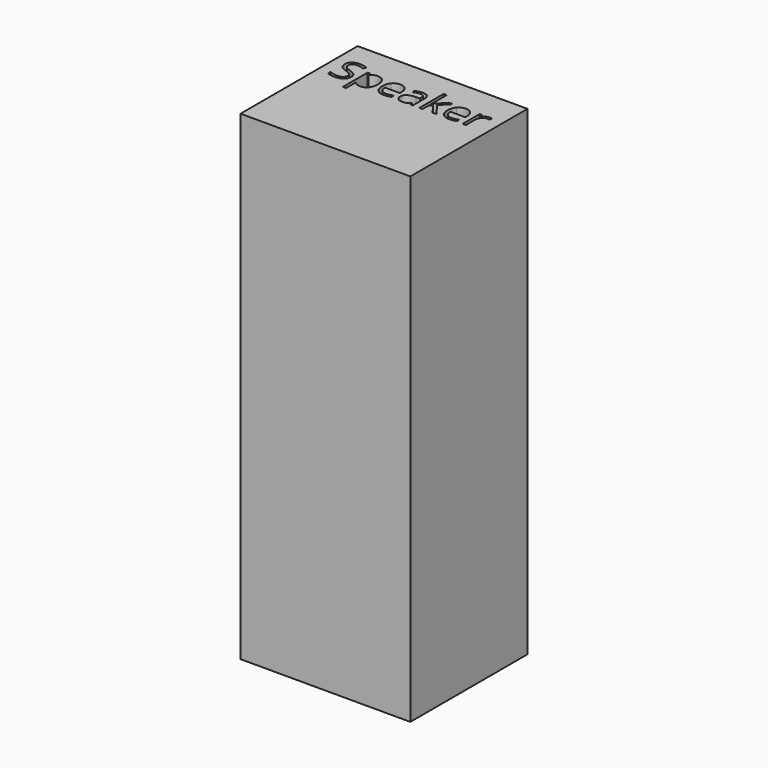
from build123d import *

# Parameters (mm, degrees)
F0_W     = 368.3
F0_H     = 317.5
F1_DEPTH = 1041.4


with BuildPart() as f1:
    # F0 (on Top) → F1 (new body)
    with BuildSketch(Plane.XY):
        Rectangle(F0_W, F0_H)
        with BuildLine():
            add(Edge.make_bspline(
                [(-125.4846355018, 73.7542923918), (-121.8415331808, 69.7873587534), (-121.8415331808, 63.4726480636)],
                knots=[0, 0, 0, 1, 1, 1], degree=2))
            add(Edge.make_bspline(
                [(-121.8415331808, 63.4726480636), (-121.8415331808, 55.3363862133), (-127.744708238, 50.7757618263)],
                knots=[0, 0, 0, 1, 1, 1], degree=2))
            add(Edge.make_bspline(
                [(-127.744708238, 50.7757618263), (-133.6478832952, 46.2151374392), (-143.7676119647, 46.2151374392)],
                knots=[0, 0, 0, 1, 1, 1], degree=2))
            add(Edge.make_bspline(
                [(-143.7676119647, 46.2151374392), (-154.7239048709, 46.2151374392), (-160.6338264139, 49.0486614667)],
                knots=[0, 0, 0, 1, 1, 1], degree=2))
            Line((-160.6338264139, 49.0486614667), (-160.6338264139, 55.9570629051))
            add(Edge.make_bspline(
                [(-160.6338264139, 55.9570629051), (-156.8288084341, 54.3648922611), (-152.362634848, 53.4338772235)],
                knots=[0, 0, 0, 1, 1, 1], degree=2))
            add(Edge.make_bspline(
                [(-152.362634848, 53.4338772235), (-147.8964612619, 52.5028621859), (-143.5112455051, 52.5028621859)],
                knots=[0, 0, 0, 1, 1, 1], degree=2))
            add(Edge.make_bspline(
                [(-143.5112455051, 52.5028621859), (-136.3464776071, 52.5028621859), (-132.7168682576, 55.2216959551)],
                knots=[0, 0, 0, 1, 1, 1], degree=2))
            add(Edge.make_bspline(
                [(-132.7168682576, 55.2216959551), (-129.0872589081, 57.9405297243), (-129.0872589081, 62.7979994856)],
                knots=[0, 0, 0, 1, 1, 1], degree=2))
            add(Edge.make_bspline(
                [(-129.0872589081, 62.7979994856), (-129.0872589081, 65.9958337452), (-130.3758376921, 68.0400189364)],
                knots=[0, 0, 0, 1, 1, 1], degree=2))
            add(Edge.make_bspline(
                [(-130.3758376921, 68.0400189364), (-131.664416476, 70.0842041277), (-134.6800956195, 71.8180509731)],
                knots=[0, 0, 0, 1, 1, 1], degree=2))
            add(Edge.make_bspline(
                [(-134.6800956195, 71.8180509731), (-137.695774763, 73.5518978184), (-143.8485697941, 75.737759211)],
                knots=[0, 0, 0, 1, 1, 1], degree=2))
            add(Edge.make_bspline(
                [(-143.8485697941, 75.737759211), (-152.4435926773, 78.8141567266), (-156.1339203988, 83.0307103389)],
                knots=[0, 0, 0, 1, 1, 1], degree=2))
            add(Edge.make_bspline(
                [(-156.1339203988, 83.0307103389), (-159.8242481203, 87.2472639512), (-159.8242481203, 94.0342286455)],
                knots=[0, 0, 0, 1, 1, 1], degree=2))
            add(Edge.make_bspline(
                [(-159.8242481203, 94.0342286455), (-159.8242481203, 101.1585176288), (-154.474284897, 105.3750712411)],
                knots=[0, 0, 0, 1, 1, 1], degree=2))
            add(Edge.make_bspline(
                [(-154.474284897, 105.3750712411), (-149.1243216737, 109.5916248534), (-140.2999182739, 109.5916248534)],
                knots=[0, 0, 0, 1, 1, 1], degree=2))
            add(Edge.make_bspline(
                [(-140.2999182739, 109.5916248534), (-131.111204642, 109.5916248534), (-123.3932249101, 106.2183819636)],
                knots=[0, 0, 0, 1, 1, 1], degree=2))
            Line((-123.3932249101, 106.2183819636), (-125.633058189, 99.9846291032))
            add(Edge.make_bspline(
                [(-125.633058189, 99.9846291032), (-133.2700800915, 103.1824633627), (-140.4753269042, 103.1824633627)],
                knots=[0, 0, 0, 1, 1, 1], degree=2))
            add(Edge.make_bspline(
                [(-140.4753269042, 103.1824633627), (-146.1693609023, 103.1824633627), (-149.3739416476, 100.7402355105)],
                knots=[0, 0, 0, 1, 1, 1], degree=2))
            add(Edge.make_bspline(
                [(-149.3739416476, 100.7402355105), (-152.5785223929, 98.2980076582), (-152.5785223929, 93.9532708161)],
                knots=[0, 0, 0, 1, 1, 1], degree=2))
            add(Edge.make_bspline(
                [(-152.5785223929, 93.9532708161), (-152.5785223929, 90.7554365566), (-151.3978873815, 88.7045048796)],
                knots=[0, 0, 0, 1, 1, 1], degree=2))
            add(Edge.make_bspline(
                [(-151.3978873815, 88.7045048796), (-150.2172523701, 86.6535732025), (-147.4107142857, 84.9467123003)],
                knots=[0, 0, 0, 1, 1, 1], degree=2))
            add(Edge.make_bspline(
                [(-147.4107142857, 84.9467123003), (-144.6041762014, 83.239851398), (-138.829184374, 81.1754267495)],
                knots=[0, 0, 0, 1, 1, 1], degree=2))
            add(Edge.make_bspline(
                [(-138.829184374, 81.1754267495), (-129.1277378228, 77.7212260303), (-125.4846355018, 73.7542923918)],
                knots=[0, 0, 0, 1, 1, 1], degree=2))
        make_face(mode=Mode.SUBTRACT)
        with BuildLine():
            add(Edge.make_bspline(
                [(-74.6633581236, 52.5231016432), (-79.7434619157, 46.2151374392), (-88.7702598889, 46.2151374392)],
                knots=[0, 0, 0, 1, 1, 1], degree=2))
            add(Edge.make_bspline(
                [(-88.7702598889, 46.2151374392), (-93.2904053612, 46.2151374392), (-97.0212119974, 47.8815194268)],
                knots=[0, 0, 0, 1, 1, 1], degree=2))
            add(Edge.make_bspline(
                [(-97.0212119974, 47.8815194268), (-100.7520186335, 49.5479014144), (-103.2752043151, 53.0155951051)],
                knots=[0, 0, 0, 1, 1, 1], degree=2))
            Line((-103.2752043151, 53.0155951051), (-103.7879372344, 53.0155951051))
            add(Edge.make_bspline(
                [(-103.7879372344, 53.0155951051), (-103.2752043151, 48.9677036373), (-103.2752043151, 45.3380942879)],
                knots=[0, 0, 0, 1, 1, 1], degree=2))
            Line((-103.2752043151, 45.3380942879), (-103.2752043151, 26.3130043892))
            Line((-103.2752043151, 26.3130043892), (-110.2780565544, 26.3130043892))
            Line((-110.2780565544, 26.3130043892), (-110.2780565544, 93.2786222382))
            Line((-110.2780565544, 93.2786222382), (-104.5840225564, 93.2786222382))
            Line((-104.5840225564, 93.2786222382), (-103.6125286041, 86.9504185769))
            Line((-103.6125286041, 86.9504185769), (-103.2752043151, 86.9504185769))
            add(Edge.make_bspline(
                [(-103.2752043151, 86.9504185769), (-100.5766100033, 90.7554365566), (-96.9942260543, 92.4420580015)],
                knots=[0, 0, 0, 1, 1, 1], degree=2))
            add(Edge.make_bspline(
                [(-96.9942260543, 92.4420580015), (-93.4118421053, 94.1286794464), (-88.7702598889, 94.1286794464)],
                knots=[0, 0, 0, 1, 1, 1], degree=2))
            add(Edge.make_bspline(
                [(-88.7702598889, 94.1286794464), (-79.5815462569, 94.1286794464), (-74.5824002942, 87.8409546998)],
                knots=[0, 0, 0, 1, 1, 1], degree=2))
            add(Edge.make_bspline(
                [(-74.5824002942, 87.8409546998), (-69.5832543315, 81.5532299531), (-69.5832543315, 70.2191338433)],
                knots=[0, 0, 0, 1, 1, 1], degree=2))
            add(Edge.make_bspline(
                [(-69.5832543315, 70.2191338433), (-69.5832543315, 58.8310658472), (-74.6633581236, 52.5231016432)],
                knots=[0, 0, 0, 1, 1, 1], degree=2))
        make_face(mode=Mode.SUBTRACT)
        with BuildLine():
            add(Edge.make_bspline(
                [(-29.8464530892, 46.9167719603), (-33.1522311213, 46.2151374392), (-37.8342922524, 46.2151374392)],
                knots=[0, 0, 0, 1, 1, 1], degree=2))
            add(Edge.make_bspline(
                [(-37.8342922524, 46.2151374392), (-48.0754576659, 46.2151374392), (-54.0056186662, 52.4623832712)],
                knots=[0, 0, 0, 1, 1, 1], degree=2))
            add(Edge.make_bspline(
                [(-54.0056186662, 52.4623832712), (-59.9357796666, 58.7096291032), (-59.9357796666, 69.7873587534)],
                knots=[0, 0, 0, 1, 1, 1], degree=2))
            add(Edge.make_bspline(
                [(-59.9357796666, 69.7873587534), (-59.9357796666, 80.9730321761), (-54.4306472703, 87.5508558112)],
                knots=[0, 0, 0, 1, 1, 1], degree=2))
            add(Edge.make_bspline(
                [(-54.4306472703, 87.5508558112), (-48.9255148741, 94.1286794464), (-39.6423504413, 94.1286794464)],
                knots=[0, 0, 0, 1, 1, 1], degree=2))
            add(Edge.make_bspline(
                [(-39.6423504413, 94.1286794464), (-30.9663697287, 94.1286794464), (-25.9065053939, 88.414405991)],
                knots=[0, 0, 0, 1, 1, 1], degree=2))
            add(Edge.make_bspline(
                [(-25.9065053939, 88.414405991), (-20.8466410592, 82.7001325357), (-20.8466410592, 73.3360102735)],
                knots=[0, 0, 0, 1, 1, 1], degree=2))
            Line((-20.8466410592, 73.3360102735), (-20.8466410592, 68.910315602))
            Line((-20.8466410592, 68.910315602), (-52.6765609676, 68.910315602))
            add(Edge.make_bspline(
                [(-52.6765609676, 68.910315602), (-52.4606734227, 60.7740537517), (-48.561204642, 56.5575001395)],
                knots=[0, 0, 0, 1, 1, 1], degree=2))
            add(Edge.make_bspline(
                [(-48.561204642, 56.5575001395), (-44.6617358614, 52.3409465272), (-37.5779257927, 52.3409465272)],
                knots=[0, 0, 0, 1, 1, 1], degree=2))
            add(Edge.make_bspline(
                [(-37.5779257927, 52.3409465272), (-30.1163125204, 52.3409465272), (-22.8301078784, 55.4578229574)],
                knots=[0, 0, 0, 1, 1, 1], degree=2))
            Line((-22.8301078784, 55.4578229574), (-22.8301078784, 49.2105771254))
            add(Edge.make_bspline(
                [(-22.8301078784, 49.2105771254), (-26.5406750572, 47.6184064814), (-29.8464530892, 46.9167719603)],
                knots=[0, 0, 0, 1, 1, 1], degree=2))
        make_face(mode=Mode.SUBTRACT)
        with BuildLine():
            Line((24.7056309251, 47.0651946475), (19.5108368748, 47.0651946475))
            Line((19.5108368748, 47.0651946475), (18.1210608042, 53.6497647684))
            Line((18.1210608042, 53.6497647684), (17.7837365152, 53.6497647684))
            add(Edge.make_bspline(
                [(17.7837365152, 53.6497647684), (14.329535796, 49.3050279263), (10.8955745342, 47.7600826828)],
                knots=[0, 0, 0, 1, 1, 1], degree=2))
            add(Edge.make_bspline(
                [(10.8955745342, 47.7600826828), (7.4616132723, 46.2151374392), (2.3072981366, 46.2151374392)],
                knots=[0, 0, 0, 1, 1, 1], degree=2))
            add(Edge.make_bspline(
                [(2.3072981366, 46.2151374392), (-4.5606243871, 46.2151374392), (-8.4600931677, 49.7637889593)],
                knots=[0, 0, 0, 1, 1, 1], degree=2))
            add(Edge.make_bspline(
                [(-8.4600931677, 49.7637889593), (-12.3595619483, 53.3124404794), (-12.3595619483, 59.8430387142)],
                knots=[0, 0, 0, 1, 1, 1], degree=2))
            add(Edge.make_bspline(
                [(-12.3595619483, 59.8430387142), (-12.3595619483, 73.8352502212), (10.0252778686, 74.5098987991)],
                knots=[0, 0, 0, 1, 1, 1], degree=2))
            Line((10.0252778686, 74.5098987991), (17.8646943446, 74.7662652588))
            Line((17.8646943446, 74.7662652588), (17.8646943446, 77.6402682009))
            add(Edge.make_bspline(
                [(17.8646943446, 77.6402682009), (17.8646943446, 83.0779357393), (15.5304102648, 85.6685862787)],
                knots=[0, 0, 0, 1, 1, 1], degree=2))
            add(Edge.make_bspline(
                [(15.5304102648, 85.6685862787), (13.196126185, 88.2592368181), (8.0418110494, 88.2592368181)],
                knots=[0, 0, 0, 1, 1, 1], degree=2))
            add(Edge.make_bspline(
                [(8.0418110494, 88.2592368181), (2.266819222, 88.2592368181), (-5.0193854201, 84.7240782696)],
                knots=[0, 0, 0, 1, 1, 1], degree=2))
            Line((-5.0193854201, 84.7240782696), (-7.1782608696, 90.0807879786))
            add(Edge.make_bspline(
                [(-7.1782608696, 90.0807879786), (-3.7645390651, 91.9293250822), (0.3035918601, 92.9817768639)],
                knots=[0, 0, 0, 1, 1, 1], degree=2))
            add(Edge.make_bspline(
                [(0.3035918601, 92.9817768639), (4.3717227852, 94.0342286455), (8.4735861393, 94.0342286455)],
                knots=[0, 0, 0, 1, 1, 1], degree=2))
            add(Edge.make_bspline(
                [(8.4735861393, 94.0342286455), (16.7312847336, 94.0342286455), (20.7184578294, 90.3708868671)],
                knots=[0, 0, 0, 1, 1, 1], degree=2))
            add(Edge.make_bspline(
                [(20.7184578294, 90.3708868671), (24.7056309251, 86.7075450888), (24.7056309251, 78.6117621532)],
                knots=[0, 0, 0, 1, 1, 1], degree=2))
            Line((24.7056309251, 78.6117621532), (24.7056309251, 47.0651946475))
        make_face(mode=Mode.SUBTRACT)
        with BuildLine():
            add(Edge.make_bspline(
                [(111.9511850278, 46.9167719603), (108.6454069958, 46.2151374392), (103.9633458647, 46.2151374392)],
                knots=[0, 0, 0, 1, 1, 1], degree=2))
            add(Edge.make_bspline(
                [(103.9633458647, 46.2151374392), (93.7221804511, 46.2151374392), (87.7920194508, 52.4623832712)],
                knots=[0, 0, 0, 1, 1, 1], degree=2))
            add(Edge.make_bspline(
                [(87.7920194508, 52.4623832712), (81.8618584505, 58.7096291032), (81.8618584505, 69.7873587534)],
                knots=[0, 0, 0, 1, 1, 1], degree=2))
            add(Edge.make_bspline(
                [(81.8618584505, 69.7873587534), (81.8618584505, 80.9730321761), (87.3669908467, 87.5508558112)],
                knots=[0, 0, 0, 1, 1, 1], degree=2))
            add(Edge.make_bspline(
                [(87.3669908467, 87.5508558112), (92.8721232429, 94.1286794464), (102.1552876757, 94.1286794464)],
                knots=[0, 0, 0, 1, 1, 1], degree=2))
            add(Edge.make_bspline(
                [(102.1552876757, 94.1286794464), (110.8312683884, 94.1286794464), (115.8911327231, 88.414405991)],
                knots=[0, 0, 0, 1, 1, 1], degree=2))
            add(Edge.make_bspline(
                [(115.8911327231, 88.414405991), (120.9509970579, 82.7001325357), (120.9509970579, 73.3360102735)],
                knots=[0, 0, 0, 1, 1, 1], degree=2))
            Line((120.9509970579, 73.3360102735), (120.9509970579, 68.910315602))
            Line((120.9509970579, 68.910315602), (89.1210771494, 68.910315602))
            add(Edge.make_bspline(
                [(89.1210771494, 68.910315602), (89.3369646943, 60.7740537517), (93.236433475, 56.5575001395)],
                knots=[0, 0, 0, 1, 1, 1], degree=2))
            add(Edge.make_bspline(
                [(93.236433475, 56.5575001395), (97.1359022556, 52.3409465272), (104.2197123243, 52.3409465272)],
                knots=[0, 0, 0, 1, 1, 1], degree=2))
            add(Edge.make_bspline(
                [(104.2197123243, 52.3409465272), (111.6813255966, 52.3409465272), (118.9675302386, 55.4578229574)],
                knots=[0, 0, 0, 1, 1, 1], degree=2))
            Line((118.9675302386, 55.4578229574), (118.9675302386, 49.2105771254))
            add(Edge.make_bspline(
                [(118.9675302386, 49.2105771254), (115.2569630598, 47.6184064814), (111.9511850278, 46.9167719603)],
                knots=[0, 0, 0, 1, 1, 1], degree=2))
        make_face(mode=Mode.SUBTRACT)
        with BuildLine():
            add(Edge.make_bspline(
                [(146.0074452435, 91.6797051084), (149.637054593, 94.1286794464), (153.9817914351, 94.1286794464)],
                knots=[0, 0, 0, 1, 1, 1], degree=2))
            add(Edge.make_bspline(
                [(153.9817914351, 94.1286794464), (157.0581889506, 94.1286794464), (159.5004168029, 93.6159465272)],
                knots=[0, 0, 0, 1, 1, 1], degree=2))
            Line((159.5004168029, 93.6159465272), (158.5289228506, 87.1258272071))
            add(Edge.make_bspline(
                [(158.5289228506, 87.1258272071), (155.66841288, 87.7599968704), (153.4690585159, 87.7599968704)],
                knots=[0, 0, 0, 1, 1, 1], degree=2))
            add(Edge.make_bspline(
                [(153.4690585159, 87.7599968704), (147.8559823472, 87.7599968704), (143.8755557372, 83.2061189691)],
                knots=[0, 0, 0, 1, 1, 1], degree=2))
            add(Edge.make_bspline(
                [(143.8755557372, 83.2061189691), (139.8951291272, 78.6522410679), (139.8951291272, 71.8652763735)],
                knots=[0, 0, 0, 1, 1, 1], degree=2))
            Line((139.8951291272, 71.8652763735), (139.8951291272, 47.0651946475))
            Line((139.8951291272, 47.0651946475), (132.8922768879, 47.0651946475))
            Line((132.8922768879, 47.0651946475), (132.8922768879, 93.2786222382))
            Line((132.8922768879, 93.2786222382), (138.6672687153, 93.2786222382))
            Line((138.6672687153, 93.2786222382), (139.4768470088, 84.7240782696))
            Line((139.4768470088, 84.7240782696), (139.8141712978, 84.7240782696))
            add(Edge.make_bspline(
                [(139.8141712978, 84.7240782696), (142.3778358941, 89.2307307704), (146.0074452435, 91.6797051084)],
                knots=[0, 0, 0, 1, 1, 1], degree=2))
        make_face(mode=Mode.SUBTRACT)
        with BuildLine():
            Line((45.7006946715, 70.718373791), (46.0380189604, 70.718373791))
            add(Edge.make_bspline(
                [(46.0380189604, 70.718373791), (47.8460771494, 73.2955313588), (51.5566443282, 77.4648595706)],
                knots=[0, 0, 0, 1, 1, 1], degree=2))
            Line((51.5566443282, 77.4648595706), (66.4798708728, 93.2786222382))
            Line((66.4798708728, 93.2786222382), (74.7915413534, 93.2786222382))
            Line((74.7915413534, 93.2786222382), (56.063296829, 73.5923767331))
            Line((56.063296829, 73.5923767331), (76.1003595946, 47.0651946475))
            Line((76.1003595946, 47.0651946475), (67.6267734554, 47.0651946475))
            Line((67.6267734554, 47.0651946475), (51.3002778686, 68.910315602))
            Line((51.3002778686, 68.910315602), (46.0380189604, 64.349691215))
            Line((46.0380189604, 64.349691215), (46.0380189604, 47.0651946475))
            Line((46.0380189604, 47.0651946475), (39.1161245505, 47.0651946475))
            Line((39.1161245505, 47.0651946475), (39.1161245505, 112.6815153405))
            Line((39.1161245505, 112.6815153405), (46.0380189604, 112.6815153405))
            Line((46.0380189604, 112.6815153405), (46.0380189604, 77.883141689))
            add(Edge.make_bspline(
                [(46.0380189604, 77.883141689), (46.0380189604, 75.5758435523), (45.7006946715, 70.718373791)],
                knots=[0, 0, 0, 1, 1, 1], degree=2))
        make_face(mode=Mode.SUBTRACT)
    extrude(amount=F1_DEPTH)


solid = f1.part
